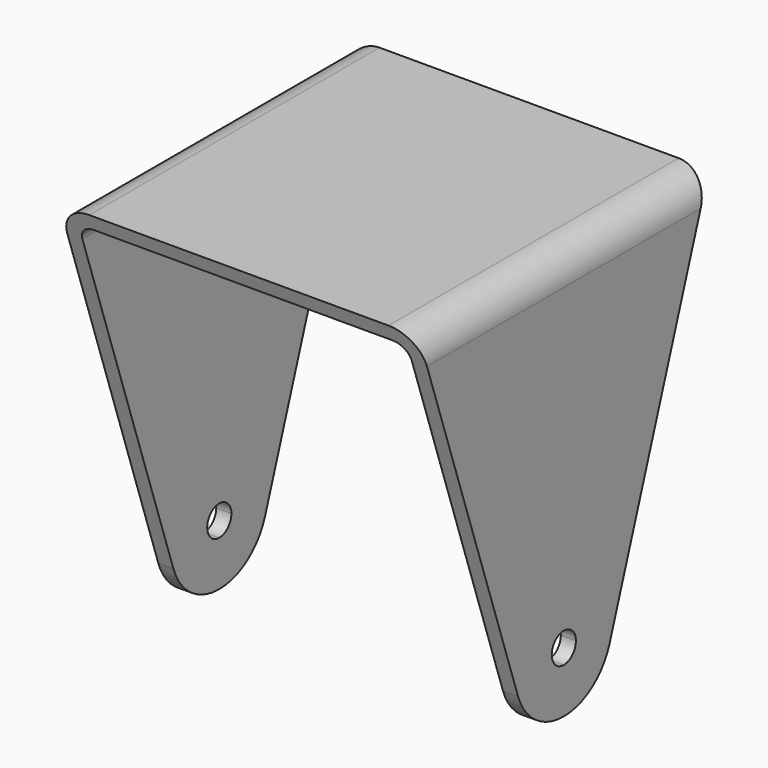
from build123d import *

# Parameters (mm, degrees)
F2_DEPTH      = 80
F2_DEPTH_BACK = 80
F3_START      = -34.501
F3_DEPTH      = 119.002


with BuildPart() as f2:
    # F0 (on Front) → F2 (new body, two sides)
    with BuildSketch(Plane.XZ) as f2_sk:
        with BuildLine():
            Line((25, 115), (25, 110))
            Line((25, 110), (74.5, 110))
            ThreePointArc((74.5, 110), (78.0355339059, 108.5355339059), (79.5, 105))
            Line((79.5, 105), (79.5, 0))
            Line((79.5, 0), (79.5, -20))
            Line((79.5, -20), (84.5, -20))
            Line((84.5, -20), (84.5, 105))
            ThreePointArc((84.5, 105), (81.5710678119, 112.0710678119), (74.5, 115))
            Line((74.5, 115), (25, 115))
        make_face()
        with BuildLine():
            Line((-29.5, -20), (-29.5, 0))
            Line((-29.5, 0), (-29.5, 105))
            ThreePointArc((-29.5, 105), (-28.0355339059, 108.5355339059), (-24.5, 110))
            Line((-24.5, 110), (25, 110))
            Line((25, 110), (25, 115))
            Line((25, 115), (-24.5, 115))
            ThreePointArc((-24.5, 115), (-31.5710678119, 112.0710678119), (-34.5, 105))
            Line((-34.5, 105), (-34.5, -20))
            Line((-34.5, -20), (-29.5, -20))
        make_face()
    extrude(amount=F2_DEPTH)
    extrude(f2_sk.sketch, amount=-F2_DEPTH_BACK)

    # F1 (on Right) → F3 (intersect)
    with BuildSketch(Plane.YZ.offset(F3_START)):
        with BuildLine():
            Line((-60, 115), (-18.9460998047, -6.4066607677))
            ThreePointArc((-18.9460998047, -6.4066607677), (-11.6590476594, -16.2501263896), (0, -20))
            Line((0, -20), (0, -5))
            ThreePointArc((0, -5), (-5, 0), (0, 5))
            Line((0, 5), (0, 115))
            Line((0, 115), (-60, 115))
        make_face()
        with BuildLine():
            Line((0, -5), (0, -20))
            ThreePointArc((0, -20), (11.6590476594, -16.2501263896), (18.9460998047, -6.4066607677))
            Line((18.9460998047, -6.4066607677), (60, 115))
            Line((60, 115), (0, 115))
            Line((0, 115), (0, 5))
            ThreePointArc((0, 5), (3.5355339059, 3.5355339059), (5, 0))
            ThreePointArc((5, 0), (3.5355339059, -3.5355339059), (0, -5))
        make_face()
    extrude(amount=F3_DEPTH, mode=Mode.INTERSECT)


solid = f2.part
